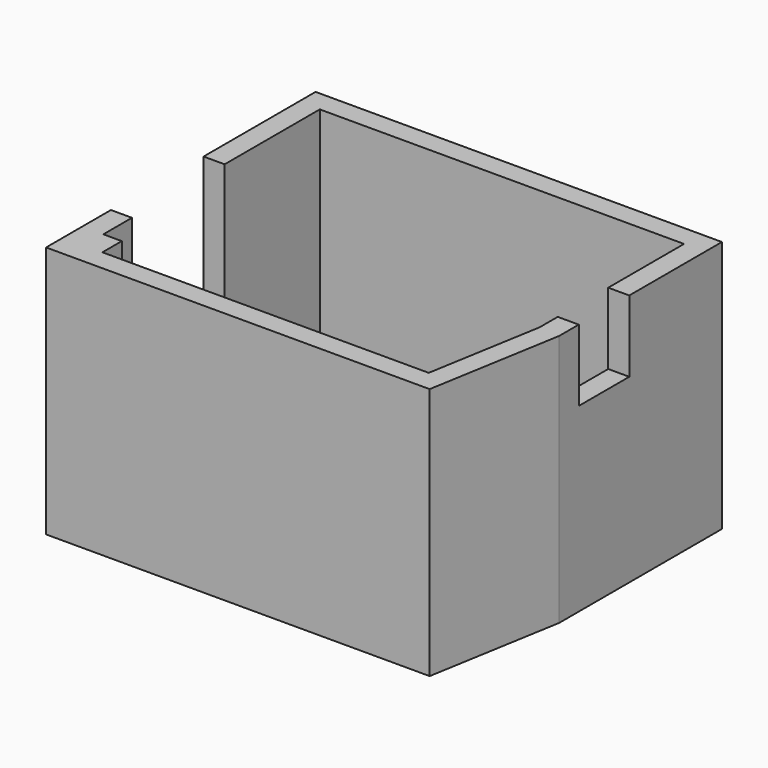
from build123d import *

# Parameters (mm, degrees)
F0_W     = 17.5
F0_H     = 23
F1_DEPTH = 240
F0_W_2   = 20
F0_H_2   = 60
F2_DEPTH = 172
F0_H_3   = 110
F3_DEPTH = 100


with BuildPart() as f1:
    # F0 (on Top) → F1 (new body)
    with BuildSketch(Plane.XY):
        with Locations((-155.7525681257, -118.5)):
            Rectangle(F0_W, F0_H)
        Polygon((-164.5025681257, -107), (-164.5025681257, -73), (-184.5025681257, -73), (-184.5025681257, -150), (179.8741881599, -150), (201.4974318743, -23.2607228812), (201.4974318743, 0), (181.4974318743, 0), (181.4974318743, -21.566840865), (162.9974318743, -130), (-147.0025681257, -130), (-164.5025681257, -130), align=None)
    extrude(amount=F1_DEPTH)



with BuildPart() as f1b:
    # F0 (on Top) → F1, piece 2 (new body)
    with BuildSketch(Plane.XY):
        Polygon((-164.5025681257, 37), (-164.5025681257, 150), (181.4974318743, 150), (181.4974318743, 60), (201.4974318743, 60), (201.4974318743, 170), (-184.5025681257, 170), (-184.5025681257, 37), align=None)
    extrude(amount=F1_DEPTH)


with BuildPart() as f1_1:
    add(f1.part)

    add(f1b.part)  # F2 merges F1b
    # F0 (on Top) → F2 (join)
    with BuildSketch(Plane.XY):
        with Locations((191.4974318743, 30)):
            Rectangle(F0_W_2, F0_H_2)
    extrude(amount=F2_DEPTH)

    # F0 (on Top) → F3 (join)
    with BuildSketch(Plane.XY):
        with Locations((-174.5025681257, -18)):
            Rectangle(F0_W_2, F0_H_3)
    extrude(amount=F3_DEPTH)


solid = f1_1.part
